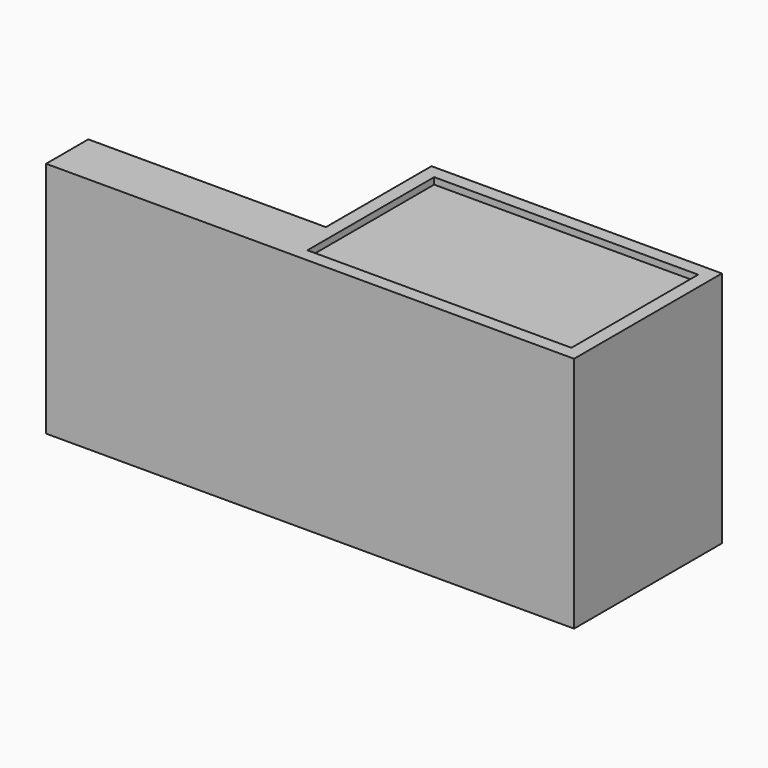
from build123d import *

# Parameters (mm, degrees)
F0_W     = 254
F0_H     = 152.4
F1_DEPTH = 228.6
F2_DEPTH = 6.35
F4_DEPTH = 25.4


with BuildPart() as f1:
    # F0 (on Top) → F1 (new body)
    with BuildSketch(Plane.XY):
        Polygon((257.823838, 32.772094), (-21.576162, 32.772094), (-21.576162, -94.227906), (-250.176162, -94.227906), (-250.176162, -145.027906), (257.823838, -145.027906), align=None)
        with Locations((118.123838, -56.127906)):
            Rectangle(F0_W, F0_H, mode=Mode.SUBTRACT)
        with Locations((118.123838, -56.127906)):
            Rectangle(F0_W, F0_H)
    extrude(amount=-F1_DEPTH)

    # F0 (on Top) → F2 (cut)
    with BuildSketch(Plane.XY):
        with Locations((118.123838, -56.127906)):
            Rectangle(F0_W, F0_H)
    extrude(amount=-F2_DEPTH, mode=Mode.SUBTRACT)

    # F3 (on face) → F4 (cut)
    with BuildSketch(Plane(origin=(0, -94.227906, 0), x_dir=(-1, 0, 0), z_dir=(0, 1, 0))):
        with BuildLine():
            ThreePointArc((237.476162, -114.3), (207.71821, -42.457951), (135.876162, -12.7))
            ThreePointArc((135.876162, -12.7), (64.034113, -186.142049), (237.476162, -114.3))
        make_face()
        with BuildLine():
            ThreePointArc((234.301162, -114.3), (66.279177, -183.896985), (135.876162, -15.875))
            ThreePointArc((135.876162, -15.875), (205.473146, -44.703015), (234.301162, -114.3))
        make_face(mode=Mode.SUBTRACT)
    extrude(amount=-F4_DEPTH, mode=Mode.SUBTRACT)


solid = f1.part
